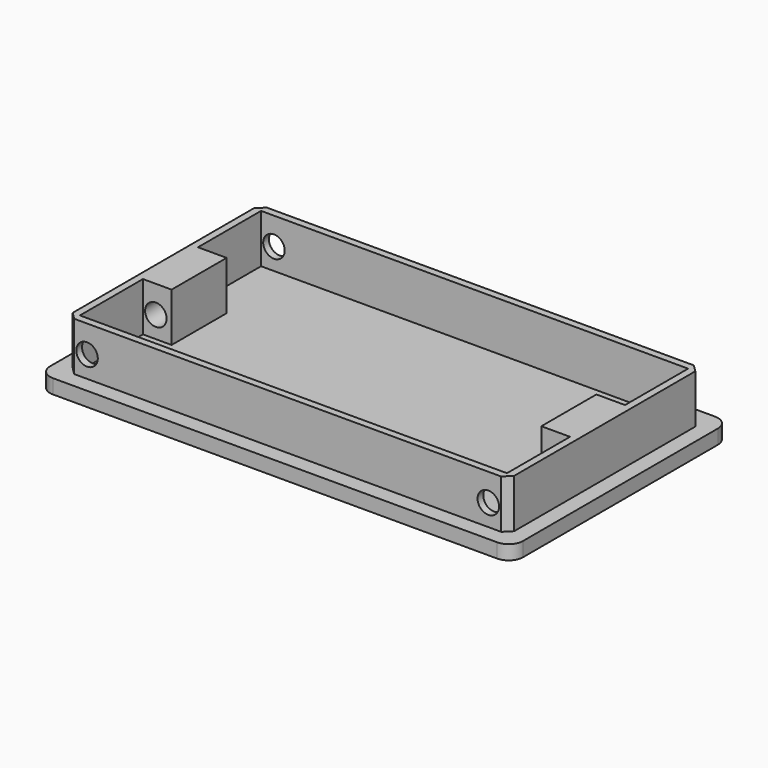
from build123d import *

# Parameters (mm, degrees)
F0_W      = 66
F0_H      = 38
F1_DEPTH  = 2
F2_W      = 61.6
F2_H      = 33.6
F2_W_2    = 59.6
F2_H_2    = 31.6
F3_DEPTH  = 6.8
F4_R      = 2
F5_W      = 45
F5_H      = 35
F6_DEPTH  = 1
F7_R      = 1
F8_DEPTH  = 8.801
F9_W      = 4
F9_H      = 9.6
F10_DEPTH = 6.8
F11_R     = 1.5
F12_DEPTH = 35.801
F13_SIZE  = 1


with BuildPart() as f1:
    # F0 (on Top) → F1 (new body)
    with BuildSketch(Plane.XY):
        with Locations((33, -19)):
            Rectangle(F0_W, F0_H)
    extrude(amount=F1_DEPTH)

    # F2 (on face) → F3 (join)
    with BuildSketch(Plane.XY.offset(2)):
        with Locations((33, -19)):
            Rectangle(F2_W, F2_H)
        with Locations((33, -19)):
            Rectangle(F2_W_2, F2_H_2, mode=Mode.SUBTRACT)
    extrude(amount=F3_DEPTH)

    # F4
    f4_edges = [f1.edges().sort_by_distance(p)[0] for p in [
        (0, -38, 1),
        (0, 0, 1),
        (66, -38, 1),
        (66, 0, 1),
    ]]
    fillet(f4_edges, radius=F4_R)

    # F5 (on face) → F6 (cut)
    with BuildSketch(Plane(origin=(0, 0, 0), x_dir=(1, 0, 0), z_dir=(0, 0, -1))):
        with Locations((24.5, 19)):
            Rectangle(F5_W, F5_H)
    extrude(amount=-F6_DEPTH, mode=Mode.SUBTRACT)

    # F7 (on face) → F8 (cut, through all)
    with BuildSketch(Plane(origin=(0, 0, 0), x_dir=(1, 0, 0), z_dir=(0, 0, -1))):
        with Locations((9.5, 32.5)):
            Circle(F7_R)
        with Locations((39.5, 32.5)):
            Circle(F7_R)
    extrude(amount=-F8_DEPTH, mode=Mode.SUBTRACT)

    # F9 (on face) → F10 (join)
    with BuildSketch(Plane.XY.offset(2)):
        with Locations((5.2, -19)):
            Rectangle(F9_W, F9_H)
        with Locations((60.8, -19)):
            Rectangle(F9_W, F9_H)
    extrude(amount=F10_DEPTH)

    # F11 (on face) → F12 (cut, through all)
    with BuildSketch(Plane(origin=(0, -2.2, 0), x_dir=(-1, 0, 0), z_dir=(0, 1, 0))):
        with Locations((-61, 5)):
            Circle(F11_R)
        with Locations((-5, 5)):
            Circle(F11_R)
    extrude(amount=-F12_DEPTH, mode=Mode.SUBTRACT)

    # F13
    f13_edges = [f1.edges().sort_by_distance(p)[0] for p in [
        (2.2, -2.2, 5.4),
        (2.2, -35.8, 5.4),
        (63.8, -35.8, 5.4),
        (63.8, -2.2, 5.4),
    ]]
    chamfer(f13_edges, length=F13_SIZE)


solid = f1.part
